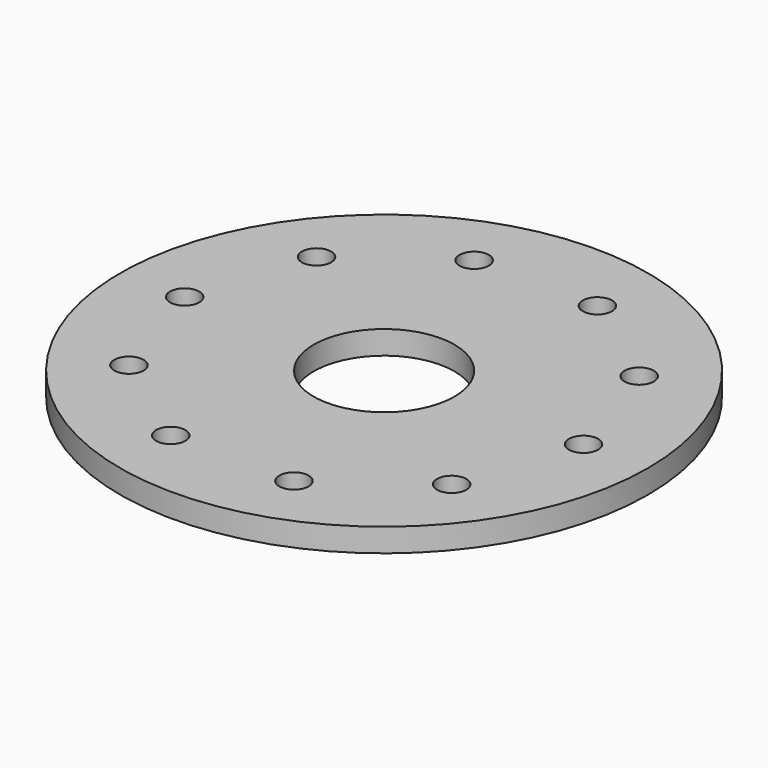
from build123d import *

# Parameters (mm, degrees)
F0_R     = 112.5
F1_DEPTH = 10
F2_R     = 30
F3_DEPTH = 10
F5_D     = 12.5


with BuildPart() as f1:
    # F0 (on Top) → F1 (new body)
    with BuildSketch(Plane.XY):
        Circle(F0_R)
    extrude(amount=F1_DEPTH)

    # F2 (on face) → F3 (cut, through all)
    with BuildSketch(Plane.XY.offset(10)):
        Circle(F2_R)
    extrude(amount=-F3_DEPTH, mode=Mode.SUBTRACT)

    # F5 (through all)
    with Locations(Plane.XY.offset(10)):
        with Locations((85, 0), (68.766445, -49.961746), (68.766445, 49.961746), (26.266445, 80.839804), (-26.266445, 80.839804), (-68.766445, 49.961746), (-85, 0), (-68.766445, -49.961746), (-26.266445, -80.839804), (26.266445, -80.839804)):
            Hole(F5_D / 2)


solid = f1.part
